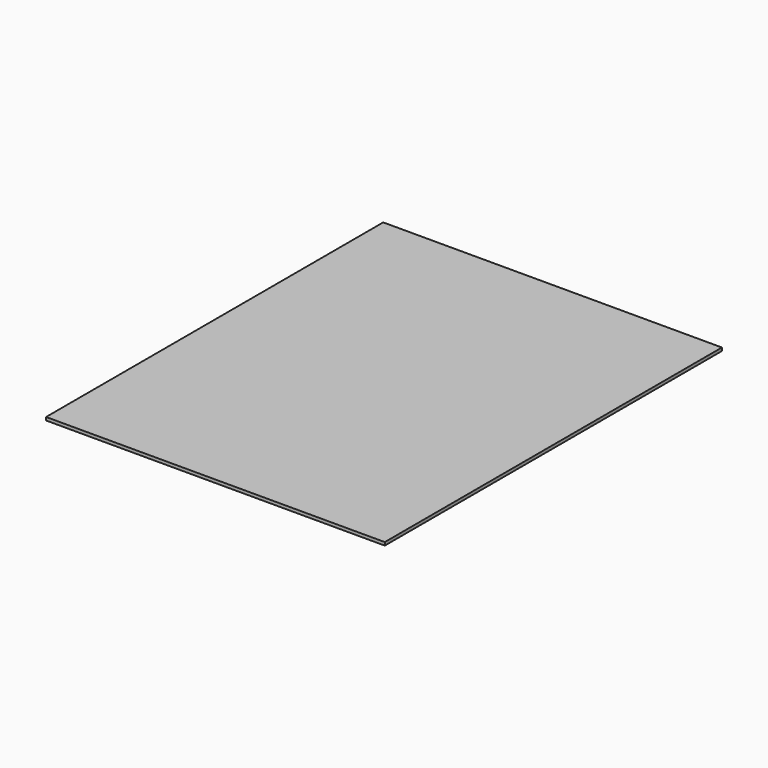
from build123d import *

# Parameters (mm, degrees)
F0_W     = 400
F0_H     = 400
F1_DEPTH = 3
F2_W     = 434
F2_H     = 540
F2_W_2   = 400
F2_H_2   = 400
F3_DEPTH = 4


with BuildPart() as f1:
    # F0 (on Top) → F1 (new body)
    with BuildSketch(Plane.XY):
        Rectangle(F0_W, F0_H)
    extrude(amount=F1_DEPTH)


with BuildPart() as f3:
    # F2 (on face) → F3 (new body)
    with BuildSketch(Plane.XY.offset(3)):
        Rectangle(F2_W, F2_H)
        Rectangle(F2_W_2, F2_H_2, mode=Mode.SUBTRACT)
        Rectangle(F2_W_2, F2_H_2)
    extrude(amount=F3_DEPTH)


solid = Compound([f1.part, f3.part])
